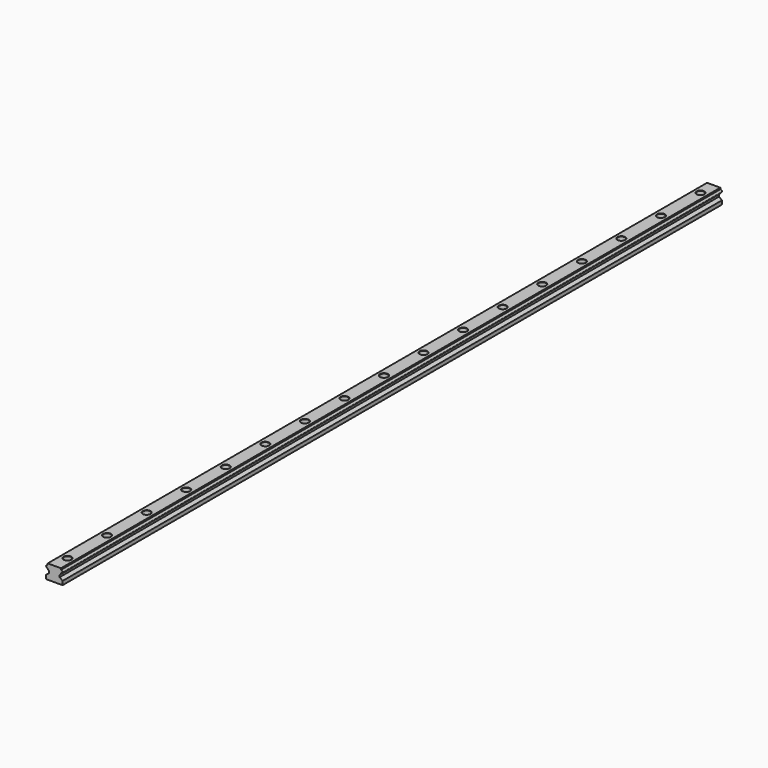
from build123d import *

# Parameters (mm, degrees)
PAD_DEPTH           = 1000
LINEARPATTERN_COUNT = 17
LINEARPATTERN_PITCH = 60


with BuildPart() as part:
    # Sketch → Pad (new body)
    with BuildSketch(Plane.XZ):
        with BuildLine():
            Line((0, 0), (10, 0))
            Line((10, 0), (10, 4.6))
            Line((10, 4.6), (6.499879, 7.428278))
            Line((6.499879, 7.428278), (6.499879, 9.928278))
            Line((6.499879, 9.928278), (7.444729, 10.761861))
            ThreePointArc((7.444729, 10.761861), (7.825541, 11.214473), (8.05731, 11.758677))
            ThreePointArc((8.33758, 12.356213), (8.169824, 12.070401), (8.05731, 11.758677))
            ThreePointArc((8.681417, 12.560606), (8.488169, 12.494291), (8.33758, 12.356213))
            ThreePointArc((8.681417, 12.560606), (9.991287, 13.947979), (8.879618, 15.498706))
            ThreePointArc((8.764215, 15.54538), (8.820458, 15.518438), (8.879618, 15.498706))
            ThreePointArc((8.250772, 16.017858), (8.479639, 15.751349), (8.764215, 15.54538))
            Line((8.250772, 16.017858), (8.02, 17.5))
            Line((8.02, 17.5), (0, 17.5))
            Line((0, 17.5), (0, 0))
        make_face()
    pad = extrude(amount=PAD_DEPTH)

    # Mirrored: Pad across Sketch V_Axis
    add(pad.mirror(Plane(origin=(0, 0, 0), x_dir=(0, -1, 0), z_dir=(1, 0, 0))))

    # Sketch001 → Groove (revolve, cut)
    with BuildSketch(Plane.XZ.offset(20)):
        Polygon((0, 0), (3.3, 0), (3, 0.3), (3, 9), (4.5, 9), (4.5, 17.2), (4.8, 17.5), (0, 17.5), align=None)
    groove = revolve(axis=Axis((0, -20, 0), (0, 0, 1)), mode=Mode.SUBTRACT)

    # LinearPattern: Groove ×17
    with Locations(*[(0, -i * LINEARPATTERN_PITCH, 0) for i in range(1, LINEARPATTERN_COUNT)]):
        add(groove, mode=Mode.SUBTRACT)


solid = part.part
